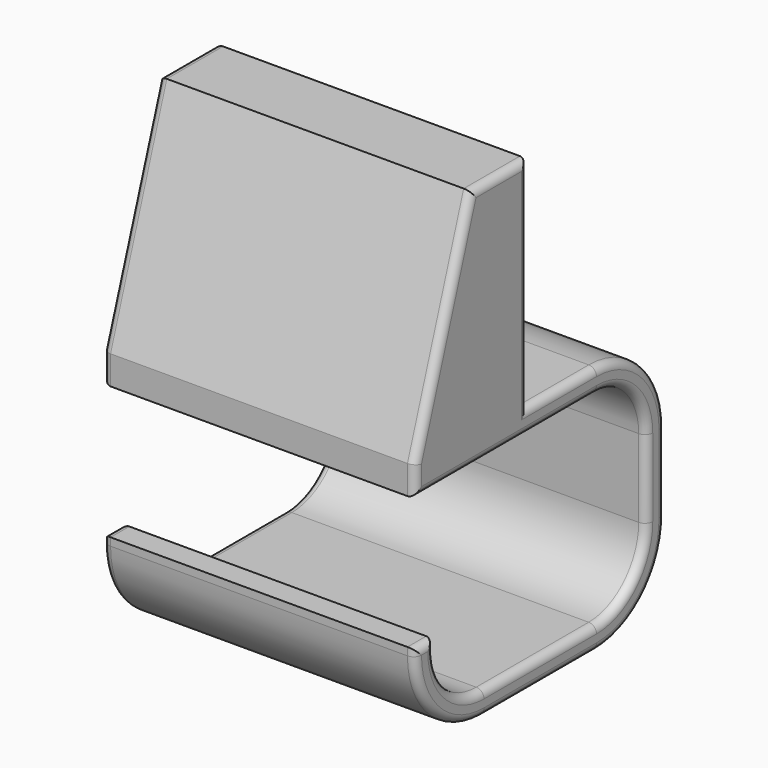
from build123d import *

# Parameters (mm, degrees)
F1_DEPTH = 10
F2_R     = 0.25


with BuildPart() as f1:
    # F0 (on Right) → F1 (new body)
    with BuildSketch(Plane.YZ):
        with BuildLine():
            Line((-16.376078, 29.655899), (-16.376078, 27.155899))
            ThreePointArc((-16.376078, 27.155899), (-16.961865, 25.741685), (-18.376078, 25.155899))
            Line((-18.376078, 25.155899), (-22.876078, 25.155899))
            ThreePointArc((-22.876078, 25.155899), (-24.290292, 25.741685), (-24.876078, 27.155899))
            Line((-24.876078, 27.155899), (-24.876078, 27.405899))
            Line((-24.876078, 27.405899), (-25.626078, 27.405899))
            Line((-25.626078, 27.405899), (-25.626078, 27.155899))
            ThreePointArc((-25.626078, 27.155899), (-24.820622, 25.211355), (-22.876078, 24.405899))
            Line((-22.876078, 24.405899), (-18.376078, 24.405899))
            ThreePointArc((-18.376078, 24.405899), (-16.431534, 25.211355), (-15.626078, 27.155899))
            Line((-15.626078, 27.155899), (-15.626078, 29.655899))
            ThreePointArc((-15.626078, 29.655899), (-16.431534, 31.600443), (-18.376078, 32.405899))
            Line((-18.376078, 32.405899), (-21.126078, 32.405899))
            Line((-21.126078, 32.405899), (-21.126078, 39.405899))
            Line((-21.126078, 39.405899), (-23.376078, 39.405899))
            Line((-23.376078, 39.405899), (-25.626078, 32.577317))
            Line((-25.626078, 32.577317), (-25.626078, 31.655899))
            Line((-25.626078, 31.655899), (-18.376078, 31.655899))
            ThreePointArc((-18.376078, 31.655899), (-16.961865, 31.070112), (-16.376078, 29.655899))
        make_face()
    extrude(amount=F1_DEPTH)

    # F2
    f2_edges = [f1.edges().sort_by_distance(p)[0] for p in [
        (10, -25.251078, 27.405899),
        (10, -25.626078, 27.280899),
        (10, -24.820622, 25.211355),
        (10, -20.626078, 24.405899),
        (10, -16.431534, 25.211355),
        (10, -15.626078, 28.405899),
        (10, -16.431534, 31.600443),
        (10, -19.751078, 32.405899),
        (10, -21.126078, 35.905899),
        (10, -22.251078, 39.405899),
        (10, -24.501078, 35.991608),
        (10, -25.626078, 32.116608),
        (10, -22.001078, 31.655899),
        (10, -16.961865, 31.070112),
        (10, -16.376078, 28.405899),
        (10, -16.961865, 25.741685),
        (10, -20.626078, 25.155899),
        (10, -24.290292, 25.741685),
        (10, -24.876078, 27.280899),
        (0, -25.251078, 27.405899),
        (0, -25.626078, 27.280899),
        (0, -24.820622, 25.211355),
        (0, -20.626078, 24.405899),
        (0, -16.431534, 25.211355),
        (0, -15.626078, 28.405899),
        (0, -16.431534, 31.600443),
        (0, -19.751078, 32.405899),
        (0, -21.126078, 35.905899),
        (0, -22.251078, 39.405899),
        (0, -24.501078, 35.991608),
        (0, -25.626078, 32.116608),
        (0, -22.001078, 31.655899),
        (0, -16.961865, 31.070112),
        (0, -16.376078, 28.405899),
        (0, -16.961865, 25.741685),
        (0, -20.626078, 25.155899),
        (0, -24.290292, 25.741685),
        (0, -24.876078, 27.280899),
    ]]
    fillet(f2_edges, radius=F2_R)


solid = f1.part
